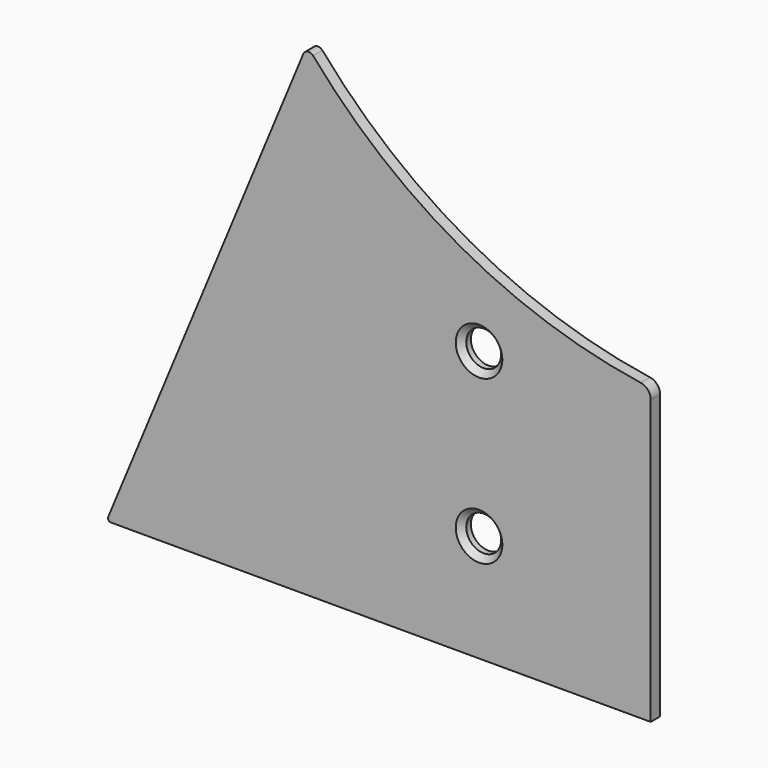
from build123d import *

# Parameters (mm, degrees)
F1_DEPTH       = 4
F3_D           = 12
F3_CSINK_D     = 16
F3_CSINK_ANGLE = 90


with BuildPart() as f1:
    # F0 (on Front) → F1 (new body)
    with BuildSketch(Plane.XZ):
        with BuildLine():
            Line((-107.6455512277, -44.1136208865), (77.8578430097, -44.1136208865))
            Line((77.8578430097, -44.1136208865), (77.8578430097, 53.406684382))
            ThreePointArc((77.8578430097, 53.406684382), (76.8879102329, 56.0179470311), (74.4484966983, 57.3628350642))
            ThreePointArc((74.4484966983, 57.3628350642), (12.5225334943, 78.3554036132), (-38.1519164256, 119.6786776649))
            ThreePointArc((-38.1519164256, 119.6786776649), (-39.9852208129, 120.3531361037), (-41.5189198689, 119.1433153037))
            Line((-41.5189198689, 119.1433153037), (-108.5694307602, -42.7309374541))
            ThreePointArc((-108.5694307602, -42.7309374541), (-108.47702084, -43.6691911195), (-107.6455512277, -44.1136208865))
        make_face()
    extrude(amount=F1_DEPTH)

    # F3 (through all)
    with Locations(Plane.XZ.offset(4)):
        with Locations((18.8578430097, 48.8863791135), (18.8578430097, -7.1136208865)):
            CounterSinkHole(F3_D / 2, F3_CSINK_D / 2, counter_sink_angle=F3_CSINK_ANGLE)


solid = f1.part
